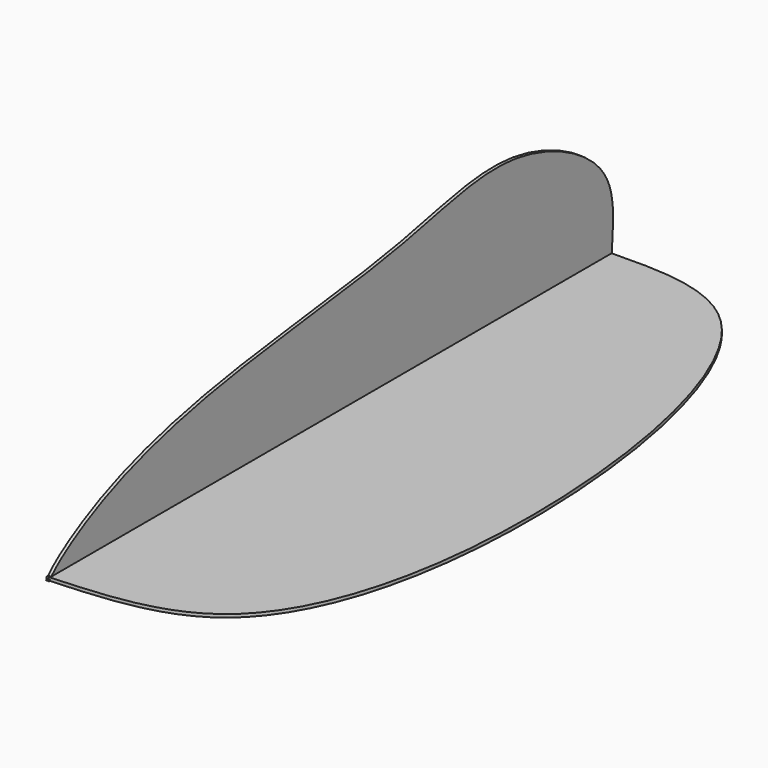
from build123d import *

# Parameters (mm, degrees)
F2_DEPTH = 0.5
F3_DEPTH = 0.5


with BuildPart() as f2:
    # F0 (on Top) → F2 (new body)
    with BuildSketch(Plane.XY):
        with BuildLine():
            add(Edge.make_bspline(
                [(0, 56.2749318779), (8.1722437451, 56.4537241373), (29.3507770953, 56.9170678589), (41.4284993012, -6.7623608093), (30.1398044655, -54.5147400485), (9.0530695919, -55.6371574316), (0, -56.1190396547)],
                knots=[0, 0, 0, 0, 0.1989656428, 0.5156234484, 0.7920448729, 1, 1, 1, 1], degree=3))
            Line((0, 56.2749318779), (0, -56.1190396547))
        make_face()
    extrude(amount=F2_DEPTH)

    # F1 (on Right) → F3 (join)
    with BuildSketch(Plane.YZ):
        with BuildLine():
            add(Edge.make_bspline(
                [(-56.2478452921, 0), (-55.0770080766, 1.6902441297), (-44.9918997346, 8.5108011844), (-20.6869254415, 14.9067990388), (14.9029028426, 17.7488779982), (36.050910406, 24.7246089938), (58.0066359892, 13.763712674), (56.5668469161, 4.3615746116), (56.2707968056, 0)],
                knots=[0, 0, 0, 0, 0.1267077892, 0.3153690601, 0.5345633135, 0.7084111499, 0.8722654578, 1, 1, 1, 1], degree=3))
            Line((-56.2478452921, 0), (56.2707968056, 0))
        make_face()
    extrude(amount=F3_DEPTH)


solid = f2.part
